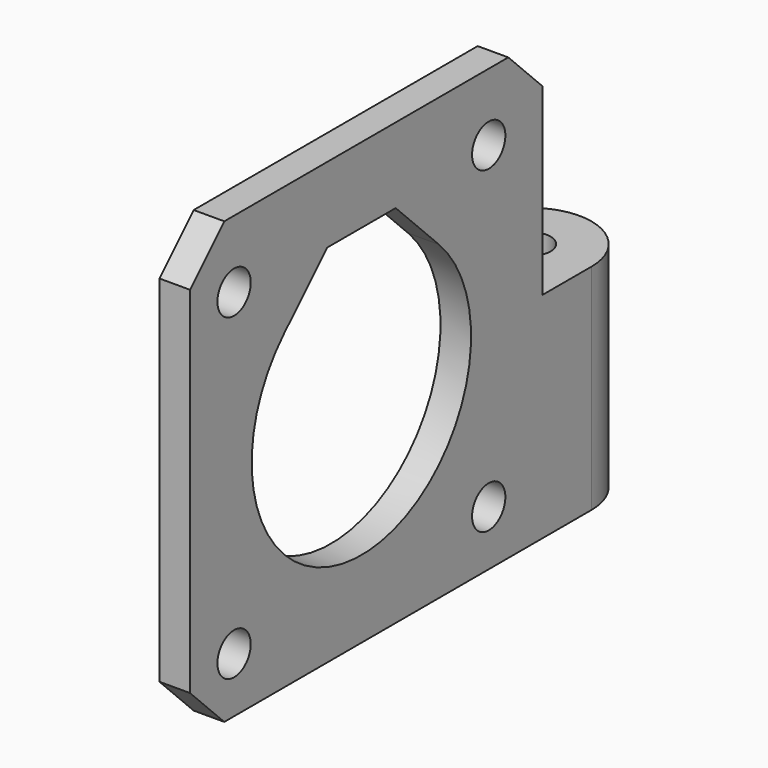
from build123d import *

# Parameters (mm, degrees)
BOX_W        = 2.5
BOX_H        = 36
BOX_DEPTH    = 36
SKETCH_R     = 1.65
PAD_DEPTH    = 17.5
SKETCH001_R  = 1.7
POCKET_DEPTH = 5
CHAMFER_SIZE = 3.5


with BuildPart() as cubo:
    # Box → Box (new body)
    with BuildSketch(Plane.XY):
        with Locations((1.25, 18)):
            Rectangle(BOX_W, BOX_H)
    extrude(amount=BOX_DEPTH)


with BuildPart() as chamfer_body:
    # Sketch → Pad (new body)
    with BuildSketch(Plane.XY):
        with BuildLine():
            Line((0, 0), (2.5, 0))
            Line((2.5, 0), (2.5, 36))
            Line((2.5, 36), (5.000024, 36))
            ThreePointArc((5.000024, 36), (8.535534, 44.535534), (0, 41.000023))
            Line((0, 41.000023), (0, 0))
        make_face()
        with Locations((5, 41)):
            Circle(SKETCH_R, mode=Mode.SUBTRACT)
    extrude(amount=PAD_DEPTH)

    # Fusion: union Cubo
    add(cubo.part)

    # Sketch001 → Pocket (cut)
    with BuildSketch(Plane.YZ.offset(2.5)):
        with Locations((4.5, 30.5)):
            Circle(SKETCH001_R)
        with Locations((30.5, 30.5)):
            Circle(SKETCH001_R)
        with Locations((30.5, 4.5)):
            Circle(SKETCH001_R)
        with Locations((4.5, 4.5)):
            Circle(SKETCH001_R)
        with BuildLine():
            Line((9.580377, 25.419569), (14, 29.839192))
            Line((14, 29.839192), (21, 29.839192))
            Line((21, 29.839192), (25.419623, 25.419569))
            ThreePointArc((9.580377, 25.419569), (17.5, 6.3), (25.419623, 25.419569))
        make_face()
    extrude(amount=-POCKET_DEPTH, mode=Mode.SUBTRACT)

    # Chamfer
    chamfer_edges = [chamfer_body.edges().sort_by_distance(p)[0] for p in [
        (1.25, 36, 36),
        (1.25, 0, 36),
        (1.25, 0, 0),
    ]]
    chamfer(chamfer_edges, length=CHAMFER_SIZE)


with BuildPart() as part_mirroring:
    # Part__Mirroring: instance of Chamfer body
    add(chamfer_body.part.mirror(Plane(origin=(0, 0, 0), x_dir=(0, -1, 0), z_dir=(1, 0, 0))))


solid = part_mirroring.part
